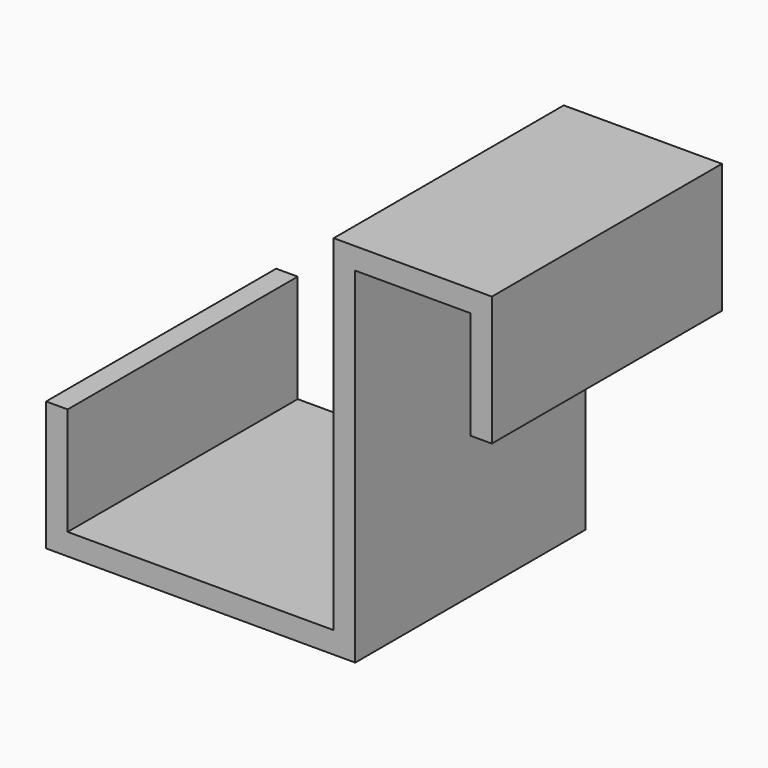
from build123d import *

# Parameters (mm, degrees)
F1_DEPTH = 40


with BuildPart() as f1:
    # F0 (on Front) → F1 (new body)
    with BuildSketch(Plane.XZ):
        Polygon((0, 30), (16, 30), (16, 15), (19, 15), (19, 30), (19, 33), (0, 33), (-3, 33), (-3, 30), (-3, -15), (-40, -15), (-40, 0), (-43, 0), (-43, -18), (-40, -18), (0, -18), (0, -15), align=None)
    extrude(amount=F1_DEPTH)


solid = f1.part
